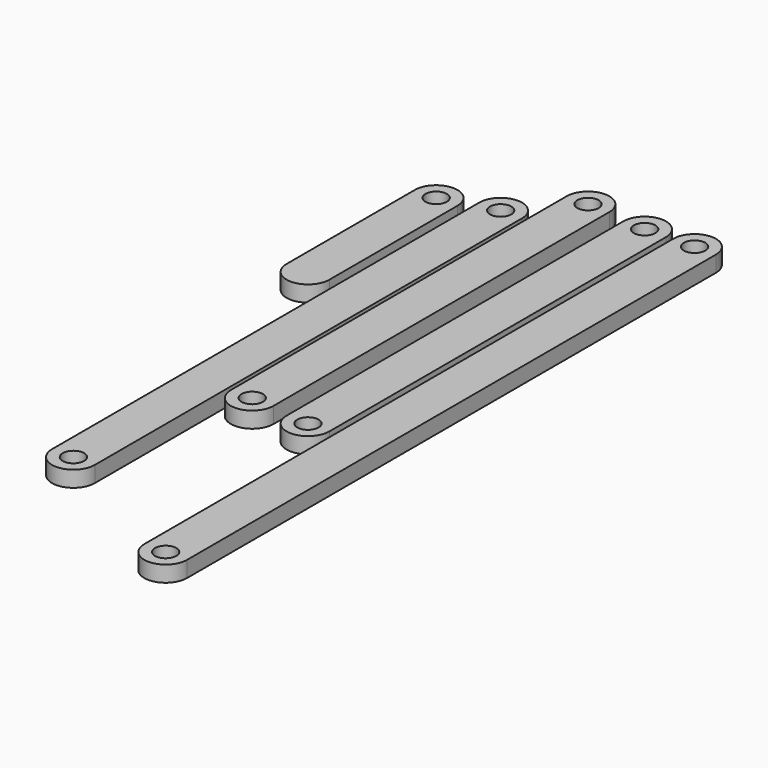
from build123d import *

# Parameters (mm, degrees)
F0_R     = 25.4
F1_DEPTH = 38.1


with BuildPart() as f1:
    # F0 (on Top) → F1 (new body)
    with BuildSketch(Plane.XY):
        with BuildLine():
            Line((-143.456717, -92.042427), (-143.456717, -473.042427))
            ThreePointArc((-143.456717, -473.042427), (-92.656717, -523.842427), (-41.856717, -473.042427))
            Line((-41.856717, -473.042427), (-41.856717, -92.042427))
            ThreePointArc((-41.856717, -92.042427), (-92.656717, -41.242427), (-143.456717, -92.042427))
        make_face()
        with Locations((-92.656717, -473.042427)):
            Circle(F0_R, mode=Mode.SUBTRACT)
        with Locations((-92.656717, -92.042427)):
            Circle(F0_R, mode=Mode.SUBTRACT)
        with BuildLine():
            Line((-18.264667, -56.868742), (-18.264667, -1326.868742))
            ThreePointArc((-18.264667, -1326.868742), (32.535333, -1377.668742), (83.335333, -1326.868742))
            Line((83.335333, -1326.868742), (83.335333, -56.868742))
            ThreePointArc((83.335333, -56.868742), (32.535333, -6.068742), (-18.264667, -56.868742))
        make_face()
        with Locations((32.535333, -1326.868742)):
            Circle(F0_R, mode=Mode.SUBTRACT)
        with Locations((32.535333, -56.868742)):
            Circle(F0_R, mode=Mode.SUBTRACT)
        with BuildLine():
            Line((92.524763, 64.349489), (92.524763, -933.870511))
            ThreePointArc((92.524763, -933.870511), (143.324763, -984.670511), (194.124763, -933.870511))
            Line((194.124763, -933.870511), (194.124763, 64.349489))
            ThreePointArc((194.124763, 64.349489), (143.324763, 115.149489), (92.524763, 64.349489))
        make_face()
        with Locations((143.324763, -933.870511)):
            Circle(F0_R, mode=Mode.SUBTRACT)
        with Locations((143.324763, 64.349489)):
            Circle(F0_R, mode=Mode.SUBTRACT)
        with BuildLine():
            Line((237.658914, 51.24329), (237.658914, -949.51671))
            ThreePointArc((237.658914, -949.51671), (288.458914, -1000.31671), (339.258914, -949.51671))
            Line((339.258914, -949.51671), (339.258914, 51.24329))
            ThreePointArc((339.258914, 51.24329), (288.458914, 102.04329), (237.658914, 51.24329))
        make_face()
        with Locations((288.458914, -949.51671)):
            Circle(F0_R, mode=Mode.SUBTRACT)
        with Locations((288.458914, 51.24329)):
            Circle(F0_R, mode=Mode.SUBTRACT)
        with BuildLine():
            Line((353.987809, 54.328505), (353.987809, -1517.931495))
            ThreePointArc((353.987809, -1517.931495), (404.787809, -1568.731495), (455.587809, -1517.931495))
            Line((455.587809, -1517.931495), (455.587809, 54.328505))
            ThreePointArc((455.587809, 54.328505), (404.787809, 105.128505), (353.987809, 54.328505))
        make_face()
        with Locations((404.787809, -1517.931495)):
            Circle(F0_R, mode=Mode.SUBTRACT)
        with Locations((404.787809, 54.328505)):
            Circle(F0_R, mode=Mode.SUBTRACT)
        with Locations((-92.656717, -473.042427)):
            Circle(F0_R)
    extrude(amount=F1_DEPTH)


solid = f1.part
